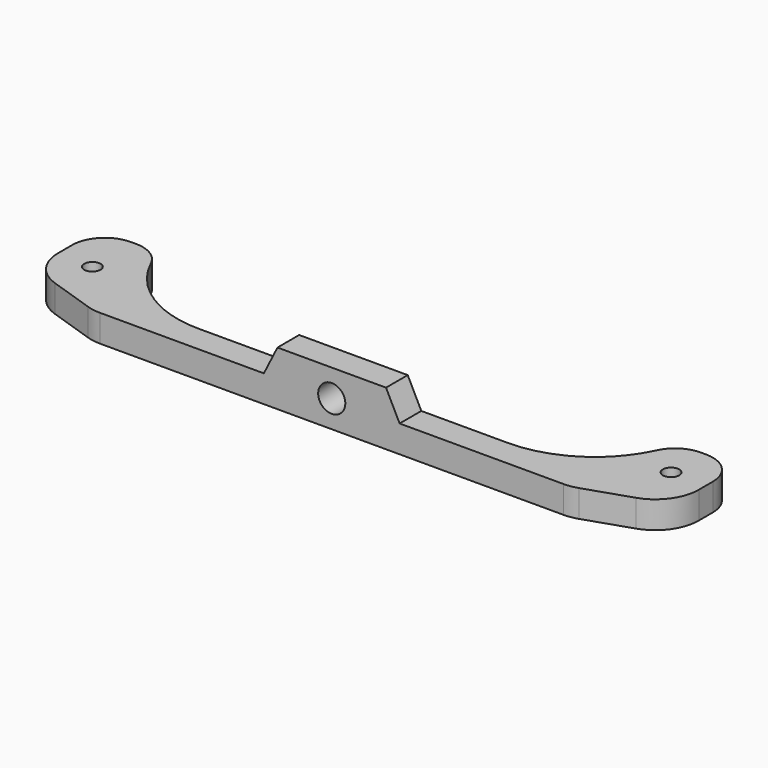
from build123d import *

# Parameters (mm, degrees)
F1_DEPTH    = 5
F3_DEPTH    = 5
F4_R        = 2.5
F5_DEPTH    = 25
F6_R        = 6
F7_R        = 1.5
F8_DEPTH    = 25
F9_R        = 20
F10_SIZE2   = 15
F10_SIZE    = 5
F10_2_SIZE2 = 15
F10_2_SIZE  = 5
F11_R       = 8


with BuildPart() as f1:
    # F0 (on Top) → F1 (new body)
    with BuildSketch(Plane.XY):
        Polygon((-59, 0), (0, 0), (0, 5), (-46, 5), (-46, 20), (-59, 20), align=None)
        Polygon((0, 5), (0, 0), (59, 0), (59, 20), (46, 20), (46, 5), align=None)
    extrude(amount=F1_DEPTH)

    # F2 (on Front) → F3 (join)
    with BuildSketch(Plane.XZ):
        Polygon((0, 10), (0, 0), (15, 0), (10, 10), align=None)
        Polygon((-15, 0), (0, 0), (0, 10), (-10, 10), align=None)
    extrude(amount=-F3_DEPTH)

    # F4 (on face) → F5 (cut)
    with BuildSketch(Plane(origin=(0, 5, 0), x_dir=(-1, 0, 0), z_dir=(0, 1, 0))):
        with Locations((0, 5)):
            Circle(F4_R)
    extrude(amount=-F5_DEPTH, mode=Mode.SUBTRACT)

    # F6
    f6_edges = [f1.edges().sort_by_distance(p)[0] for p in [
        (59, 20, 2.5),
        (46, 20, 2.5),
        (-46, 20, 2.5),
        (-59, 20, 2.5),
    ]]
    fillet(f6_edges, radius=F6_R)

    # F7 (on face) → F8 (cut)
    with BuildSketch(Plane.XY.offset(5)):
        with Locations((52.5, 12.5)):
            Circle(F7_R)
        with Locations((-52.5, 10.5117103085)):
            Circle(F7_R)
    extrude(amount=-F8_DEPTH, mode=Mode.SUBTRACT)

    # F9
    f9_edges = [f1.edges().sort_by_distance(p)[0] for p in [
        (46, 5, 2.5),
        (-46, 5, 2.5),
    ]]
    fillet(f9_edges, radius=F9_R)

    # F10
    f10_edges = [f1.edges().sort_by_distance(p)[0] for p in [
        (59, 0, 2.5),
    ]]
    f10_side = f1.faces().sort_by_distance((59, 7, 2.5))[0]
    chamfer(f10_edges, length=F10_SIZE, length2=F10_SIZE2, reference=f10_side)

    # F10#2
    f10_2_edges = [f1.edges().sort_by_distance(p)[0] for p in [
        (-59, 0, 2.5),
    ]]
    f10_2_side = f1.faces().sort_by_distance((-59, 7, 2.5))[0]
    chamfer(f10_2_edges, length=F10_2_SIZE, length2=F10_2_SIZE2, reference=f10_2_side)

    # F11
    f11_edges = [f1.edges().sort_by_distance(p)[0] for p in [
        (59, 5, 2.5),
        (44, 0, 2.5),
        (-44, 0, 2.5),
        (-59, 5, 2.5),
    ]]
    fillet(f11_edges, radius=F11_R)


solid = f1.part
